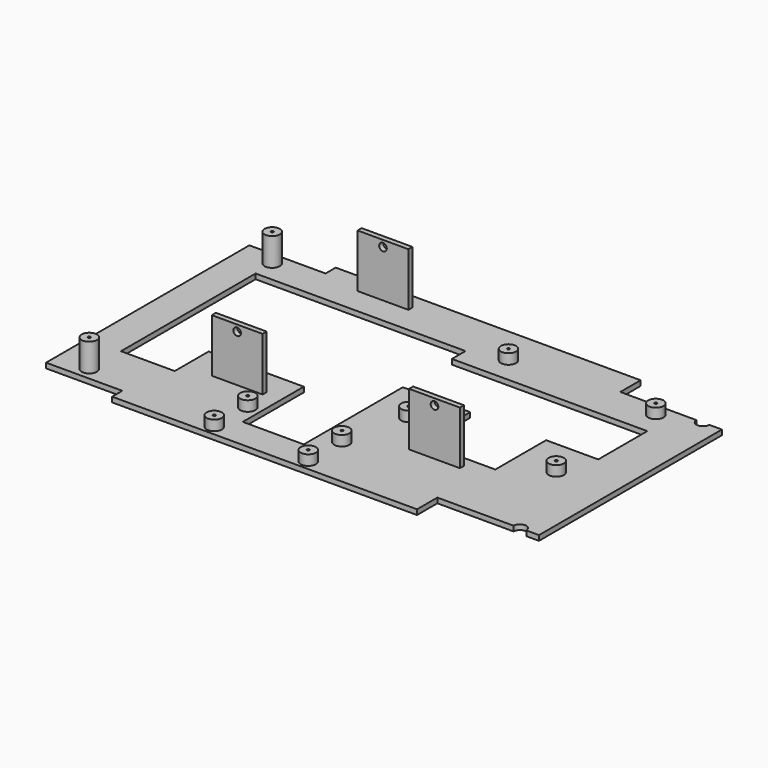
from build123d import *

# Parameters (mm, degrees)
F0_R      = 3
F0_W      = 20
F0_H      = 2
F1_DEPTH  = 2
F0_R_2    = 0.5
F2_DEPTH  = 13
F3_DEPTH  = 23
F4_DEPTH  = 6
F5_R      = 1.5
F6_DEPTH  = 25
F7_R      = 1.5
F8_DEPTH  = 5
F9_R      = 1.5
F10_DEPTH = 5


with BuildPart() as f1:
    # F0 (on Top) → F1 (new body)
    with BuildSketch(Plane.XY):
        with BuildLine():
            Line((-20.860016, 43.776053), (-140.860016, 43.776053))
            Line((-140.860016, 43.776053), (-140.860016, 38.776053))
            Line((-140.860016, 38.776053), (-170.860016, 38.776053))
            Line((-170.860016, 38.776053), (-170.860016, -61.223947))
            Line((-170.860016, -61.223947), (-140.860016, -61.223947))
            Line((-140.860016, -61.223947), (-140.860016, -66.223947))
            Line((-140.860016, -66.223947), (-20.860016, -66.223947))
            Line((-20.860016, -66.223947), (-20.860016, -56.223947))
            Line((-20.860016, -56.223947), (9.139984, -56.223947))
            ThreePointArc((9.139984, -56.223947), (11.639984, -53.723947), (14.139984, -56.223947))
            Line((14.139984, -56.223947), (19.139984, -56.223947))
            Line((19.139984, -56.223947), (19.139984, 33.776053))
            Line((19.139984, 33.776053), (14.139984, 33.776053))
            ThreePointArc((14.139984, 33.776053), (11.639984, 31.276053), (9.139984, 33.776053))
            Line((9.139984, 33.776053), (-20.860016, 33.776053))
            Line((-20.860016, 33.776053), (-20.860016, 43.776053))
        make_face()
        with Locations((-157.860016, -56.223947)):
            Circle(F0_R, mode=Mode.SUBTRACT)
        with Locations((-103.860016, -62.223947)):
            Circle(F0_R, mode=Mode.SUBTRACT)
        with Locations((-103.860016, -45.723947)):
            Circle(F0_R, mode=Mode.SUBTRACT)
        with Locations((-115.650242, -35.223947)):
            Rectangle(F0_W, F0_H, mode=Mode.SUBTRACT)
        Polygon((-157.64454, -24.237227), (-157.64454, 25.332287), (-75.020161, 25.332287), (-75.020161, 18.624624), (1.898053, 18.624624), (1.898053, -5.519149), (-18.613469, -5.519149), (-18.613469, -30.519149), (-48.526108, -30.519149), (-48.526108, -5.519149), (-75.020161, -5.519149), (-75.020161, -24.237227), (-75.020161, -54.237227), (-99.020161, -54.237227), (-99.020161, -24.237227), (-136.492044, -24.237227), (-136.492044, -40.902838), (-157.64454, -40.902838), align=None, mode=Mode.SUBTRACT)
        with Locations((-66.860016, -62.223947)):
            Circle(F0_R, mode=Mode.SUBTRACT)
        with Locations((-66.860016, -45.723947)):
            Circle(F0_R, mode=Mode.SUBTRACT)
        with Locations((-37.650242, -35.641791)):
            Rectangle(F0_W, F0_H, mode=Mode.SUBTRACT)
        with Locations((-60.860016, -20.223947)):
            Circle(F0_R, mode=Mode.SUBTRACT)
        with Locations((-2.860016, -20.223947)):
            Circle(F0_R, mode=Mode.SUBTRACT)
        with Locations((-157.860016, 33.776053)):
            Circle(F0_R, mode=Mode.SUBTRACT)
        with Locations((-115.860016, 36.776053)):
            Rectangle(F0_W, F0_H, mode=Mode.SUBTRACT)
        with Locations((-60.860016, 28.776053)):
            Circle(F0_R, mode=Mode.SUBTRACT)
        with Locations((-2.860016, 28.776053)):
            Circle(F0_R, mode=Mode.SUBTRACT)
    extrude(amount=F1_DEPTH)

    # F0 (on Top) → F2 (join)
    with BuildSketch(Plane.XY):
        with Locations((-157.860016, 33.776053)):
            Circle(F0_R)
        with Locations((-157.860016, 33.776053)):
            Circle(F0_R_2, mode=Mode.SUBTRACT)
        with Locations((-157.860016, -56.223947)):
            Circle(F0_R)
        with Locations((-157.860016, -56.223947)):
            Circle(F0_R_2, mode=Mode.SUBTRACT)
    extrude(amount=F2_DEPTH)

    # F0 (on Top) → F3 (join)
    with BuildSketch(Plane.XY):
        with Locations((-115.650242, -35.223947)):
            Rectangle(F0_W, F0_H)
        with Locations((-115.860016, 36.776053)):
            Rectangle(F0_W, F0_H)
        with Locations((-37.650242, -35.641791)):
            Rectangle(F0_W, F0_H)
    extrude(amount=F3_DEPTH)

    # F0 (on Top) → F4 (join)
    with BuildSketch(Plane.XY):
        with Locations((-60.860016, 28.776053)):
            Circle(F0_R)
        with Locations((-60.860016, 28.776053)):
            Circle(F0_R_2, mode=Mode.SUBTRACT)
        with Locations((-2.860016, 28.776053)):
            Circle(F0_R)
        with Locations((-2.860016, 28.776053)):
            Circle(F0_R_2, mode=Mode.SUBTRACT)
        with Locations((-2.860016, -20.223947)):
            Circle(F0_R)
        with Locations((-2.860016, -20.223947)):
            Circle(F0_R_2, mode=Mode.SUBTRACT)
        with Locations((-60.860016, -20.223947)):
            Circle(F0_R)
        with Locations((-60.860016, -20.223947)):
            Circle(F0_R_2, mode=Mode.SUBTRACT)
        with Locations((-66.860016, -45.723947)):
            Circle(F0_R)
        with Locations((-66.860016, -45.723947)):
            Circle(F0_R_2, mode=Mode.SUBTRACT)
        with Locations((-66.860016, -62.223947)):
            Circle(F0_R)
        with Locations((-66.860016, -62.223947)):
            Circle(F0_R_2, mode=Mode.SUBTRACT)
        with Locations((-103.860016, -62.223947)):
            Circle(F0_R)
        with Locations((-103.860016, -62.223947)):
            Circle(F0_R_2, mode=Mode.SUBTRACT)
        with Locations((-103.860016, -45.723947)):
            Circle(F0_R)
        with Locations((-103.860016, -45.723947)):
            Circle(F0_R_2, mode=Mode.SUBTRACT)
    extrude(amount=F4_DEPTH)

    # F5 (on face) → F6 (cut)
    with BuildSketch(Plane.XZ.offset(36.223947)):
        with Locations((-115.650242, 20.5)):
            Circle(F5_R)
    extrude(amount=-F6_DEPTH, mode=Mode.SUBTRACT)

    # F7 (on face) → F8 (cut)
    with BuildSketch(Plane(origin=(0, 37.776053, 0), x_dir=(-1, 0, 0), z_dir=(0, 1, 0))):
        with Locations((115.860016, 20.5)):
            Circle(F7_R)
    extrude(amount=-F8_DEPTH, mode=Mode.SUBTRACT)

    # F9 (on face) → F10 (cut)
    with BuildSketch(Plane.XZ.offset(36.641791)):
        with Locations((-37.650242, 20.5)):
            Circle(F9_R)
    extrude(amount=-F10_DEPTH, mode=Mode.SUBTRACT)


solid = f1.part
